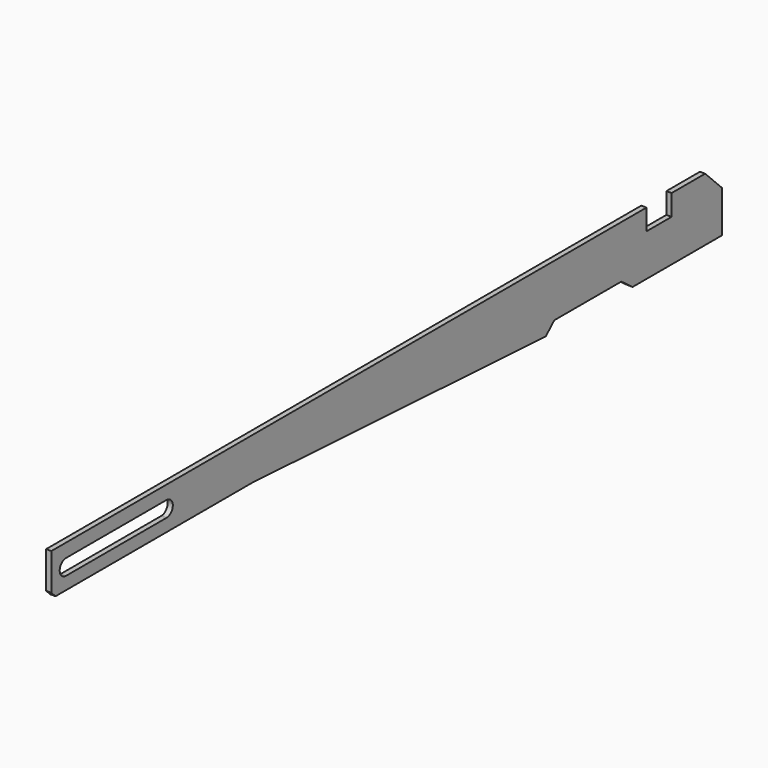
from build123d import *

# Parameters (mm, degrees)
F1_DEPTH = 3.175


with BuildPart() as f1:
    # F0 (on Right) → F1 (new body)
    with BuildSketch(Plane.YZ):
        Polygon((0, -53.173029), (0, -27.773029), (-12.7, -15.073029), (-38.1, -15.073029), (-38.1, -27.773029), (-57.15, -27.773029), (-57.15, -15.073029), (-209.55, -15.073029), (-508, -15.073029), (-508, -34.123029), (-508, -37.298029), (-504.825, -40.473029), (-355.6, -40.473029), (-213.714093, -48.355579), (-133.423444, -52.816171), (-127, -46.823029), (-76.2, -46.823029), (-67.66586, -53.173029), align=None)
        with BuildLine():
            ThreePointArc((-496.9002, -32.813641), (-501.65, -28.051141), (-496.9002, -23.288641))
            Line((-496.9002, -23.288641), (-420.7002, -23.288641))
            ThreePointArc((-420.7002, -23.288641), (-415.9504, -28.051141), (-420.7002, -32.813641))
            Line((-420.7002, -32.813641), (-496.9002, -32.813641))
        make_face(mode=Mode.SUBTRACT)
    extrude(amount=F1_DEPTH)


solid = f1.part
